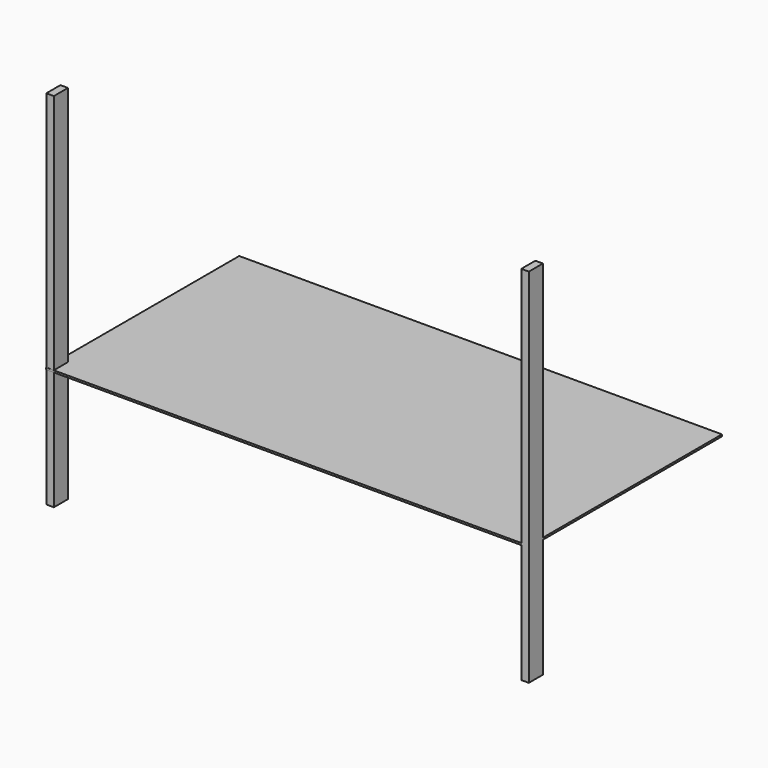
from build123d import *

# Parameters (mm, degrees)
F0_W          = 2438.4
F0_H          = 1219.2
F1_DEPTH      = 9.525
F2_W          = 38.1
F2_H          = 88.9
F3_DEPTH      = 1219.2
F3_DEPTH_BACK = 609.6


with BuildPart() as f1:
    # F0 (on Top) → F1 (new body)
    with BuildSketch(Plane.XY):
        with Locations((-1254.056167, 560.602333)):
            Rectangle(F0_W, F0_H)
    extrude(amount=F1_DEPTH)

    # F2 (on face) → F3 (join, two sides)
    with BuildSketch(Plane.XY.offset(9.525)) as f3_sk:
        with Locations((-2453.502338, -3.824588)):
            Rectangle(F2_W, F2_H)
        with Locations((-53.906167, -4.547667)):
            Rectangle(F2_W, F2_H)
    extrude(amount=F3_DEPTH)
    extrude(f3_sk.sketch, amount=-F3_DEPTH_BACK)


solid = f1.part
